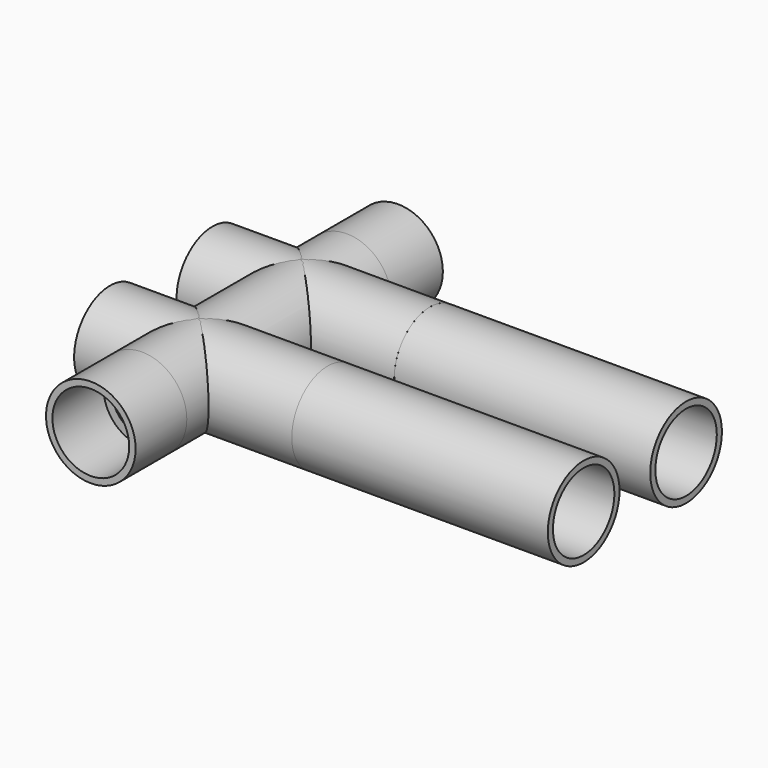
from build123d import *

# Parameters (mm, degrees)
F0_R        = 8.89
F0_R_2      = 5.9436
F2_R        = 8.89
F2_R_2      = 5.9436
F11_DEPTH   = 12.7
F12_DEPTH   = 12.7
F5_FACE_R   = 8.89
F5_FACE_R_2 = 5.9436
F14_R       = 7.62
F14_R_2     = 5.9436
F15_DEPTH   = 25.4
F17_R       = 7.62
F18_DEPTH   = 12.7
F16_R       = 7.62
F16_R_2     = 5.9436
F19_DEPTH   = 12.7


with BuildPart() as f4:
    # F4: sweep along a path in F1
    with BuildLine(Plane.XY) as f4_path:
        Line((0, 0), (0, 50.8))
    # F0 (on Front) → F4 (sweep)
    with BuildSketch(Plane.XZ):
        Circle(F0_R)
        Circle(F0_R_2, mode=Mode.SUBTRACT)
    sweep(path=f4_path.line)

    # F7: sweep along a path in F3
    with BuildLine(Plane.XY) as f7_path:
        Line((0, 39.6806389994), (25.4, 39.6806389994))
    # F2 (on Right) → F7 (sweep, cut)
    with BuildSketch(Plane.YZ):
        with BuildLine():
            ThreePointArc((45.6242389994, 0), (39.6806389994, 5.9436), (33.7370389994, 0))
            ThreePointArc((33.7370389994, 0), (39.6806389994, -5.9436), (45.6242389994, 0))
        make_face()
        with Locations((14.2806389994, 0)):
            Circle(F2_R_2)
    sweep(path=f7_path.line, mode=Mode.SUBTRACT)

    # F8: sweep along a path in F3
    with BuildLine(Plane.XY) as f8_path:
        Line((0, 39.6806389994), (-17.78, 39.6806389994))
    # F2 (on Right) → F8 (sweep, cut)
    with BuildSketch(Plane.YZ):
        with BuildLine():
            ThreePointArc((45.6242389994, 0), (39.6806389994, 5.9436), (33.7370389994, 0))
            ThreePointArc((33.7370389994, 0), (39.6806389994, -5.9436), (45.6242389994, 0))
        make_face()
        with Locations((14.2806389994, 0)):
            Circle(F2_R_2)
    sweep(path=f8_path.line, mode=Mode.SUBTRACT)

    # F0 (on Front) → F11 (join)
    with BuildSketch(Plane.XZ):
        Circle(F0_R)
        Circle(F0_R_2, mode=Mode.SUBTRACT)
    extrude(amount=F11_DEPTH)

    # F12 (add): a face of the model
    f12_faces = [f4.faces().sort_by_distance(p)[0] for p in [
        (-8.6385528286, 50.8, 0),
    ]]
    extrude(f12_faces, amount=F12_DEPTH)

    # F17 (on face) → F18 (cut)
    with BuildSketch(Plane(origin=(0, 63.5, 0), x_dir=(-1, 0, 0), z_dir=(0, 1, 0))):
        Circle(F17_R)
    extrude(amount=-F18_DEPTH, mode=Mode.SUBTRACT)

    # F16 (on face) → F19 (cut)
    with BuildSketch(Plane.XZ.offset(12.7)):
        Circle(F16_R)
        Circle(F16_R_2, mode=Mode.SUBTRACT)
    extrude(amount=-F19_DEPTH, mode=Mode.SUBTRACT)


with BuildPart() as f5:
    # F5: sweep along a path in F3
    with BuildLine(Plane.XY) as f5_path:
        Line((0, 39.6806389994), (25.4, 39.6806389994))
    # F2 (on Right) → F5 (sweep)
    with BuildSketch(Plane.YZ):
        with Locations((14.2806389994, 0)):
            Circle(F2_R)
        with Locations((14.2806389994, 0)):
            Circle(F2_R_2, mode=Mode.SUBTRACT)
        with BuildLine():
            ThreePointArc((48.5706389994, 0), (39.6806389994, 8.89), (30.7906389994, 0))
            ThreePointArc((30.7906389994, 0), (39.6806389994, -8.89), (48.5706389994, 0))
        make_face()
        with BuildLine():
            ThreePointArc((45.6242389994, 0), (39.6806389994, -5.9436), (33.7370389994, 0))
            ThreePointArc((33.7370389994, 0), (39.6806389994, 5.9436), (45.6242389994, 0))
        make_face(mode=Mode.SUBTRACT)
    sweep(path=f5_path.line)


with BuildPart() as f6:
    # F6: sweep along a path in F3
    with BuildLine(Plane.XY) as f6_path:
        Line((0, 39.6806389994), (-17.78, 39.6806389994))
    # F2 (on Right) → F6 (sweep)
    with BuildSketch(Plane.YZ):
        with BuildLine():
            ThreePointArc((48.5706389994, 0), (39.6806389994, 8.89), (30.7906389994, 0))
            ThreePointArc((30.7906389994, 0), (39.6806389994, -8.89), (48.5706389994, 0))
        make_face()
        with BuildLine():
            ThreePointArc((45.6242389994, 0), (39.6806389994, -5.9436), (33.7370389994, 0))
            ThreePointArc((33.7370389994, 0), (39.6806389994, 5.9436), (45.6242389994, 0))
        make_face(mode=Mode.SUBTRACT)
        with Locations((14.2806389994, 0)):
            Circle(F2_R)
        with Locations((14.2806389994, 0)):
            Circle(F2_R_2, mode=Mode.SUBTRACT)
    sweep(path=f6_path.line)


with BuildPart() as f9_tool:
    # F9: sweep along a path in F1
    with BuildLine(Plane.XY) as f9_path:
        Line((0, 0), (0, 50.8))
    # F0 (on Front) → F9 (sweep)
    with BuildSketch(Plane.XZ):
        Circle(F0_R_2)
    sweep(path=f9_path.line)


with BuildPart() as f5_1:
    add(f5.part)

    # F9: cut by f9_tool
    add(f9_tool.part, mode=Mode.SUBTRACT)


with BuildPart() as f6_1:
    add(f6.part)

    # F9: cut by f9_tool
    add(f9_tool.part, mode=Mode.SUBTRACT)


with BuildPart() as f13:
    # F13: sweep along a path in F10
    with BuildLine(Plane.XY) as f13_path:
        Line((25.4, 14.2806389994), (76.2, 14.2806389994))
    # F5_face (on face) → F13 (sweep)
    with BuildSketch(Plane(origin=(25.4, 14.2806389994, 0), x_dir=(0, 1, 0), z_dir=(1, 0, 0))):
        Circle(F5_FACE_R)
        Circle(F5_FACE_R_2, mode=Mode.SUBTRACT)
        with Locations((25.4, 0)):
            Circle(F5_FACE_R)
        with Locations((25.4, 0)):
            Circle(F5_FACE_R_2, mode=Mode.SUBTRACT)
    sweep(path=f13_path.line)

    # F14 (on face) → F15 (cut)
    with BuildSketch(Plane.YZ.offset(76.2)):
        with Locations((14.2806389994, 0)):
            Circle(F14_R)
        with Locations((14.2806389994, 0)):
            Circle(F14_R_2, mode=Mode.SUBTRACT)
        with Locations((39.6806389994, 0)):
            Circle(F14_R)
        with Locations((39.6806389994, 0)):
            Circle(F14_R_2, mode=Mode.SUBTRACT)
    extrude(amount=-F15_DEPTH, mode=Mode.SUBTRACT)


solid = Compound([f4.part, f5_1.part, f6_1.part, f13.part])
